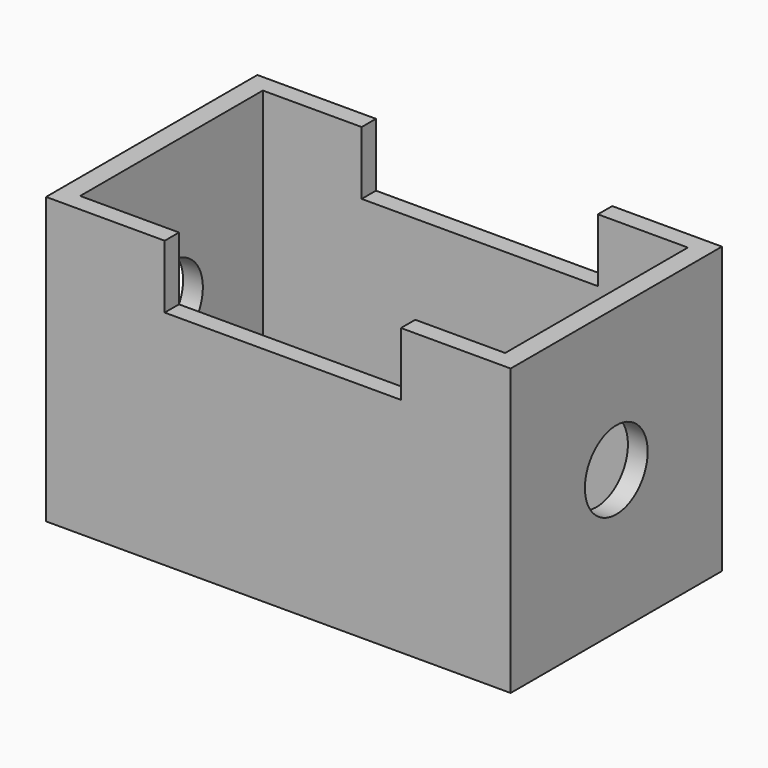
from build123d import *

# Parameters (mm, degrees)
F0_W          = 134.0631097555
F0_H          = 82.4345424771
F1_DEPTH      = 38.1
F1_DEPTH_BACK = 38.1
F2_R          = 11.3246281271
F3_DEPTH      = 93.726
F3_DEPTH_BACK = 71.374
F4_W          = 68.1725181639
F4_H          = 33.9436363429
F5_DEPTH      = 44.958
F5_DEPTH_BACK = 59.69
F6_W          = 122.6534843445
F6_H          = 65.8905878663
F7_DEPTH      = 79.756
F7_DEPTH_BACK = 65.786


with BuildPart() as f1:
    # F0 (on Front) → F1 (new body, two sides)
    with BuildSketch(Plane.XZ) as f1_sk:
        Rectangle(F0_W, F0_H)
    extrude(amount=F1_DEPTH)
    extrude(f1_sk.sketch, amount=-F1_DEPTH_BACK)

    # F2 (on Right) → F3 (cut, two sides)
    with BuildSketch(Plane.YZ) as f3_sk:
        Circle(F2_R)
    extrude(amount=F3_DEPTH, mode=Mode.SUBTRACT)
    extrude(f3_sk.sketch, amount=-F3_DEPTH_BACK, mode=Mode.SUBTRACT)

    # F4 (on Front) → F5 (cut, two sides)
    with BuildSketch(Plane.XZ) as f5_sk:
        with Locations((1.2835841626, 39.9336898699)):
            Rectangle(F4_W, F4_H)
    extrude(amount=-F5_DEPTH, mode=Mode.SUBTRACT)
    extrude(f5_sk.sketch, amount=F5_DEPTH_BACK, mode=Mode.SUBTRACT)

    # F6 (on Top) → F7 (cut, two sides)
    with BuildSketch(Plane.XY) as f7_sk:
        Rectangle(F6_W, F6_H)
    extrude(amount=-F7_DEPTH, mode=Mode.SUBTRACT)
    extrude(f7_sk.sketch, amount=F7_DEPTH_BACK, mode=Mode.SUBTRACT)


solid = f1.part
